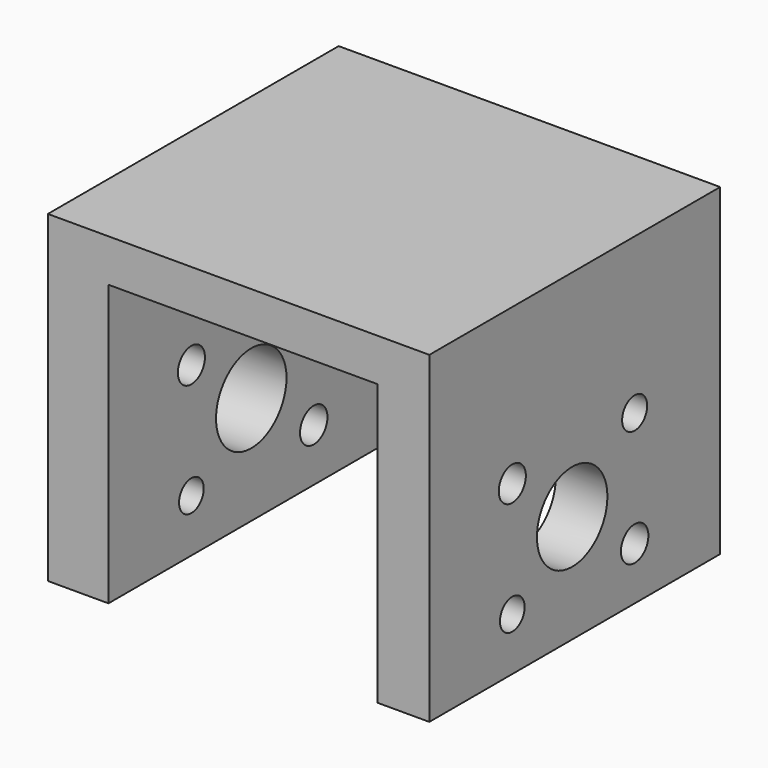
from build123d import *

# Parameters (mm, degrees)
F1_DEPTH = 81.9
F2_R     = 9.924744
F2_R_2   = 3.817718
F2_R_3   = 3.473637
F2_R_4   = 3.524851
F2_R_5   = 3.864371
F3_DEPTH = 140.3


with BuildPart() as f1:
    # F0 (on Front) → F1 (new body)
    with BuildSketch(Plane.XZ):
        Polygon((42.474139, 31.602785), (-43.485437, 31.602785), (-43.485437, -41.210033), (-29.833034, -41.210033), (-29.833034, 21.995539), (30.844316, 21.995539), (30.844316, -41.210033), (42.474139, -41.210033), align=None)
    extrude(amount=-F1_DEPTH)

    # F2 (on face) → F3 (cut)
    with BuildSketch(Plane.YZ.offset(42.474139)):
        with Locations((40.224202, -16.870018)):
            Circle(F2_R)
        with Locations((23.360305, -3.42778)):
            Circle(F2_R_2)
        with Locations((23.360305, -29.334638)):
            Circle(F2_R_3)
        with Locations((57.821315, -3.42778)):
            Circle(F2_R_4)
        with Locations((57.821315, -29.334638)):
            Circle(F2_R_5)
    extrude(amount=-F3_DEPTH, mode=Mode.SUBTRACT)


solid = f1.part
